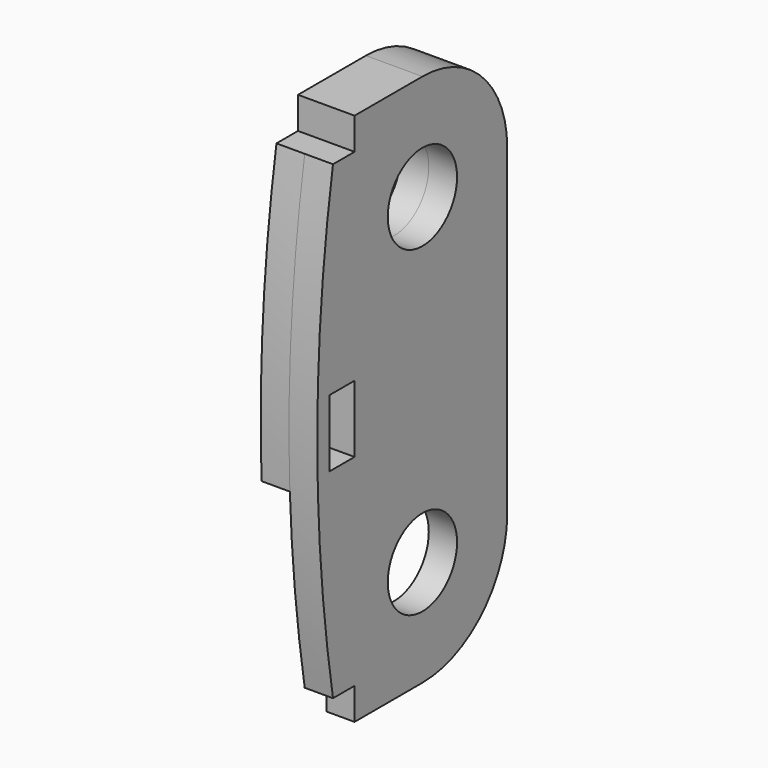
from build123d import *

# Parameters (mm, degrees)
SKETCH037_R     = 2.45
PAD019_DEPTH    = 1.6
SKETCH038_R     = 2.45
PAD020_DEPTH    = 1.6
SKETCH062_W     = 1.7771358599
SKETCH062_H     = 3.8
POCKET024_DEPTH = 1.6


with BuildPart() as part:
    # Sketch037 → Pad019 (new body)
    with BuildSketch(Plane.YZ.offset(-8.7)):
        with BuildLine():
            ThreePointArc((-6, 6), (-7.4371881489, -9.1), (-6, -24.2))
            Line((-6, -24.2), (0, -24.2))
            ThreePointArc((0, -24.2), (4.2426406871, -22.4426406871), (6, -18.2))
            Line((6, 0), (6, -18.2))
            ThreePointArc((6, 0), (4.2426406871, 4.2426406871), (0, 6))
            Line((-6, 6), (0, 6))
        make_face()
        Circle(SKETCH037_R, mode=Mode.SUBTRACT)
        with Locations((0, -18.2)):
            Circle(SKETCH037_R, mode=Mode.SUBTRACT)
    extrude(amount=PAD019_DEPTH)

    # Sketch038 → Pad020 (join)
    with BuildSketch(Plane.YZ.offset(-8.7)):
        with BuildLine():
            ThreePointArc((5.8114989668, -16.707860677), (3.6774423219, -13.4590699257), (0, -12.2))
            Line((-7.3771358599, -12.2), (0, -12.2))
            ThreePointArc((-6, 6), (-7.2090239265, -3.0606187573), (-7.3771358599, -12.2))
            Line((-6, 6), (0, 6))
            ThreePointArc((6, 0), (4.2426406871, 4.2426406871), (0, 6))
            Line((6, 0), (6, -17.4420237293))
            Line((6, -17.4420237293), (5.8114989668, -16.707860677))
        make_face()
        Circle(SKETCH038_R, mode=Mode.SUBTRACT)
    extrude(amount=-PAD020_DEPTH)

    # Sketch062 → Pocket024 (cut, symmetric)
    with BuildSketch(Plane.YZ.offset(-8.7)):
        with BuildLine():
            ThreePointArc((-6.3244944235, -22.4), (-6.167388681, -23.3009268767), (-6, -24.2))
            Line((-6, -24.2), (-4.8, -24.2))
            Line((-4.8, -24.2), (-4.8, -22.4))
            Line((-4.8, -22.4), (-6.3244944235, -22.4))
        make_face()
        with Locations((-5.68856793, -9.1)):
            Rectangle(SKETCH062_W, SKETCH062_H)
        with BuildLine():
            Line((-6, 6), (-4.8, 6))
            Line((-4.8, 6), (-4.8, 4.2))
            Line((-4.8, 4.2), (-6.3244944235, 4.2))
            ThreePointArc((-6, 6), (-6.167388681, 5.1009268767), (-6.3244944235, 4.2))
        make_face()
    extrude(amount=POCKET024_DEPTH, both=True, mode=Mode.SUBTRACT)


with BuildPart() as part_1:
    # Body017 placement: moved
    add(part.part.moved(Location((0, -72.6064407756, 0))))


solid = part_1.part
